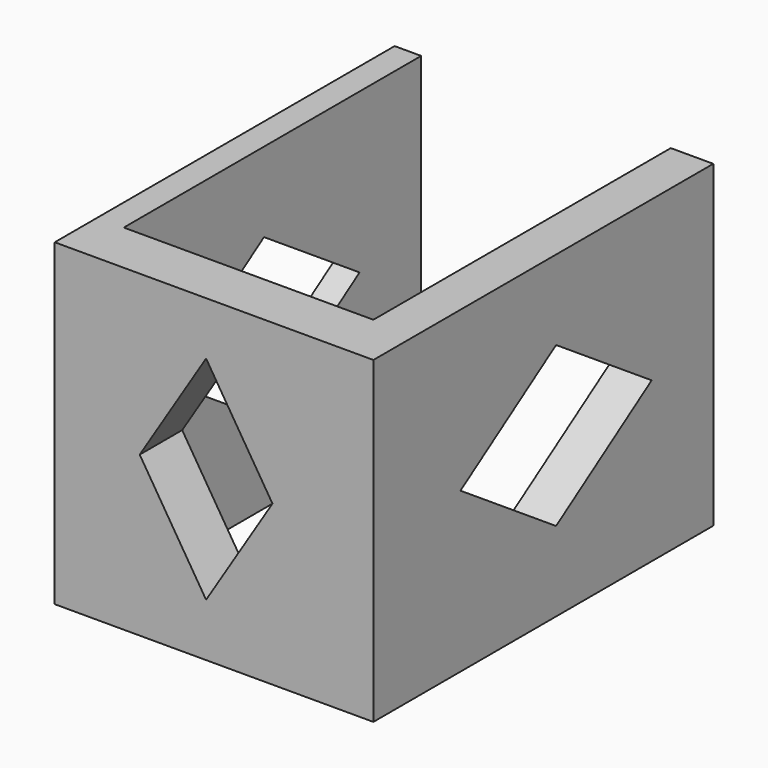
from build123d import *

# Parameters (mm, degrees)
F1_DEPTH = 60
F3_DEPTH = 60.001
F5_DEPTH = 80.001


with BuildPart() as f1:
    # F0 (on Top) → F1 (new body)
    with BuildSketch(Plane.XY):
        Polygon((-30, 40), (-30, -40), (30, -40), (30, 40), (22, 40), (22, 36), (22, -30), (-25, -30), (-25, 36), (-25, 40), align=None)
    extrude(amount=F1_DEPTH)

    # F2 (on face) → F3 (cut, through all)
    with BuildSketch(Plane.YZ.offset(30)):
        Polygon((3, 45), (-19.5, 30), (3, 15), (25.5, 30), align=None)
    extrude(amount=-F3_DEPTH, mode=Mode.SUBTRACT)

    # F4 (on face) → F5 (cut, through all)
    with BuildSketch(Plane(origin=(0, 40, 0), x_dir=(-1, 0, 0), z_dir=(0, 1, 0))):
        Polygon((14, 30), (1.5, 50), (-11, 30), (1.5, 10), align=None)
    extrude(amount=-F5_DEPTH, mode=Mode.SUBTRACT)


solid = f1.part
